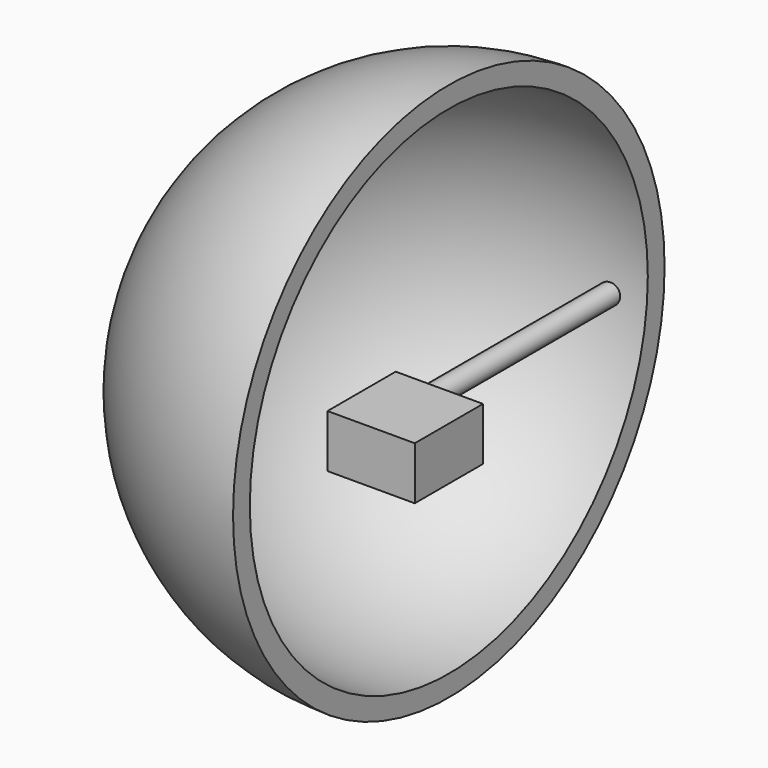
from build123d import *

# Parameters (mm, degrees)
F2_ANGLE_BACK = 90
F2_ANGLE      = 180
F1_W          = 11.0474079847
F1_H          = 6.6953976639
F3_DEPTH      = 10.795
F4_R          = 1.2862448739
F5_DEPTH      = 34.29


with BuildPart() as f2:
    # F0 (on Top) → F2 (revolve)
    with BuildSketch(Plane.XY, mode=Mode.PRIVATE) as f2_sk:
        with BuildLine():
            Line((-36.7986112833, 31.4967759484), (-36.7986112833, 34.1495558188))
            ThreePointArc((-36.7986112833, 34.1495558188), (-70.9481671021, 0), (-36.7986112833, -34.1495558188))
            Line((-36.7986112833, -34.1495558188), (-36.7986112833, -31.4967759484))
            ThreePointArc((-36.7986112833, -31.4967759484), (-68.2953872317, 0), (-36.7986112833, 31.4967759484))
        make_face()
    revolve(f2_sk.sketch.rotate(Axis((-36.7986112833, -8.9311953634, 0), (0, -1, 0)), -F2_ANGLE_BACK), axis=Axis((-36.7986112833, -8.9311953634, 0), (0, -1, 0)), revolution_arc=F2_ANGLE)


with BuildPart() as f3:
    # F1 (on Front) → F3 (new body)
    with BuildSketch(Plane.XZ):
        with Locations((-37.9963815212, -3.3476988319)):
            Rectangle(F1_W, F1_H)
    extrude(amount=F3_DEPTH)


with BuildPart() as f5:
    # F4 (on face) → F5 (new body)
    with BuildSketch(Plane(origin=(0, 0, 0), x_dir=(-1, 0, 0), z_dir=(0, 1, 0))):
        with Locations((41.2951931357, -3.2116398215)):
            Circle(F4_R)
    extrude(amount=F5_DEPTH)


solid = Compound([f2.part, f3.part, f5.part])
